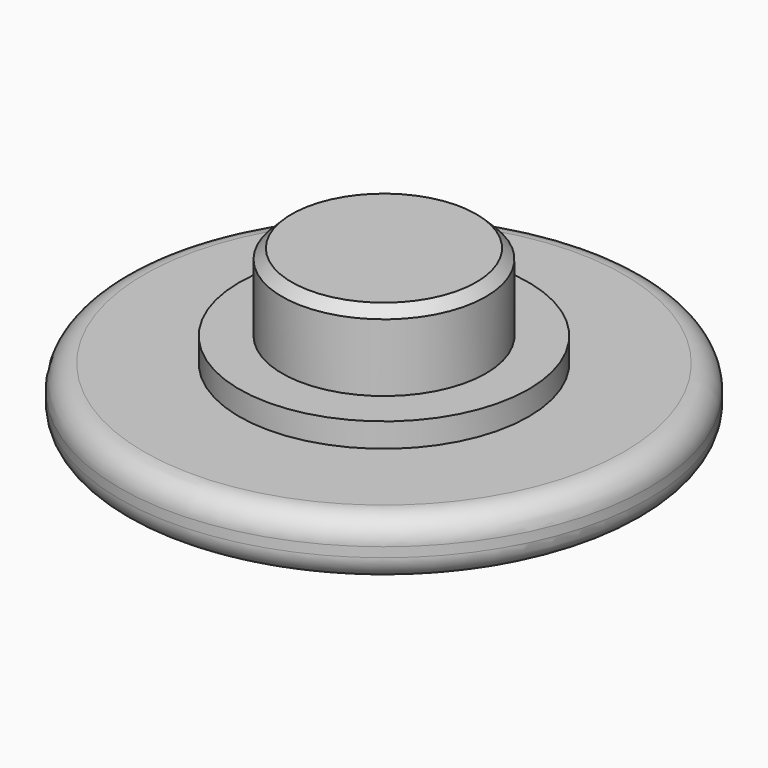
from build123d import *

# Parameters (mm, degrees)
F0_R     = 10.95
F1_DEPTH = 2.4
F2_R     = 4.225
F3_DEPTH = 4.2
F4_R     = 1
F5_R     = 6
F6_DEPTH = 1
F7_R     = 1
F8_SIZE  = 0.4


with BuildPart() as f1:
    # F0 (on Top) → F1 (new body)
    with BuildSketch(Plane.XY):
        Circle(F0_R)
    extrude(amount=F1_DEPTH)

    # F2 (on face) → F3 (join)
    with BuildSketch(Plane.XY.offset(2.4)):
        Circle(F2_R)
    extrude(amount=F3_DEPTH)

    # F4
    f4_edges = [f1.edges().sort_by_distance(p)[0] for p in [
        (-10.95, 0, 2.4),
    ]]
    fillet(f4_edges, radius=F4_R)

    # F5 (on face) → F6 (join)
    with BuildSketch(Plane.XY.offset(2.4)):
        Circle(F5_R)
    extrude(amount=F6_DEPTH)

    # F7
    f7_edges = [f1.edges().sort_by_distance(p)[0] for p in [
        (-10.95, 0, 0),
    ]]
    fillet(f7_edges, radius=F7_R)

    # F8
    f8_edges = [f1.edges().sort_by_distance(p)[0] for p in [
        (-4.225, 0, 6.6),
    ]]
    chamfer(f8_edges, length=F8_SIZE)


solid = f1.part
